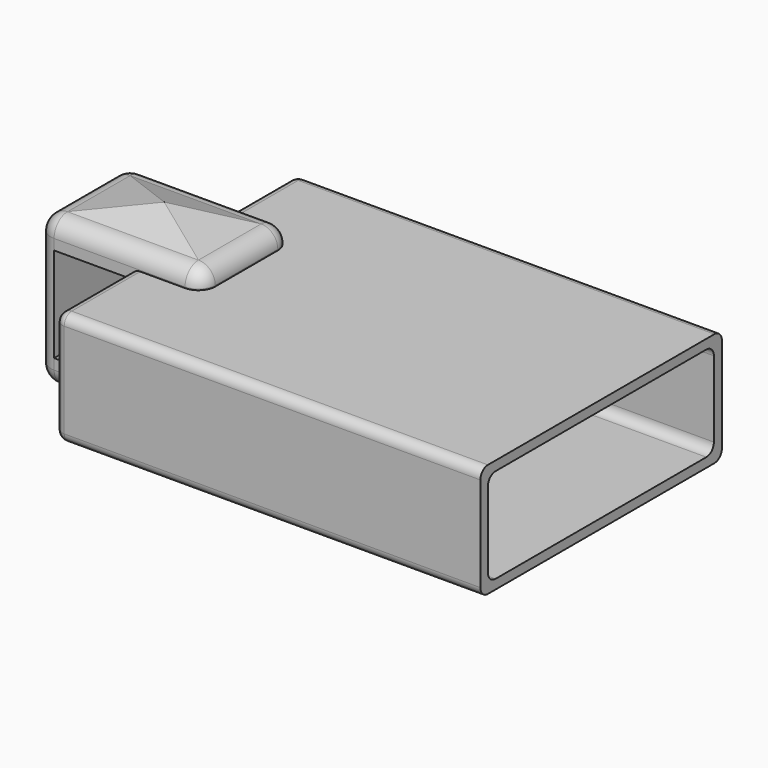
from build123d import *

# Parameters (mm, degrees)
F0_W      = 17.2212
F0_H      = 12.2174
F2_DEPTH  = 2.2987
F1_W      = 6.6548
F1_H      = 4.5212
F3_DEPTH  = 3.0226
F4_R      = 0.67818
F5_R      = 0.381
F3_FACE_W = 5.29844
F3_FACE_H = 3.16484
F8_W      = 3.10642
F8_H      = 3.8354
F9_DEPTH  = 4.5212
F11_DEPTH = 16.8402
F12_R     = 0.381


with BuildPart() as f2:
    # F0 (on Top) → F2 (new body, symmetric)
    with BuildSketch(Plane.XY):
        Rectangle(F0_W, F0_H)
    extrude(amount=F2_DEPTH, both=True)

    # F1 (on Top) → F3 (join, symmetric)
    with BuildSketch(Plane.XY):
        with Locations((-9.0678, 0)):
            Rectangle(F1_W, F1_H)
    extrude(amount=F3_DEPTH, both=True)

    # F4
    f4_edges = [f2.edges().sort_by_distance(p)[0] for p in [
        (-9.0678, 2.2606, 3.0226),
        (-9.0678, 2.2606, -3.0226),
        (-9.0678, -2.2606, 3.0226),
        (-9.0678, -2.2606, -3.0226),
        (-5.7404, 0, -3.0226),
        (-5.7404, 0, 3.0226),
        (-12.3952, -2.2606, 0),
        (-12.3952, 2.2606, 0),
        (-12.3952, 0, -3.0226),
        (-12.3952, 0, 3.0226),
        (-5.7404, 2.2606, -2.66065),
        (-5.7404, 2.2606, 2.66065),
        (-5.7404, -2.2606, 2.66065),
        (-5.7404, -2.2606, -2.66065),
    ]]
    fillet(f4_edges, radius=F4_R)

    # F5
    f5_edges = [f2.edges().sort_by_distance(p)[0] for p in [
        (0, 6.1087, 2.2987),
        (0, 6.1087, -2.2987),
        (-8.6106, 6.1087, 0),
        (-8.6106, -4.18465, 2.2987),
        (-8.6106, 4.18465, 2.2987),
        (-8.6106, -4.18465, -2.2987),
        (-8.6106, 4.18465, -2.2987),
        (-8.6106, -6.1087, 0),
        (0, -6.1087, 2.2987),
        (0, -6.1087, -2.2987),
    ]]
    fillet(f5_edges, radius=F5_R)

    # F3_face (on face) → F7 section 0
    with BuildSketch(Plane(origin=(-9.0678, 0, 3.0226), x_dir=(1, 0, 0), z_dir=(0, 0, 1)), mode=Mode.PRIVATE) as f7_s0:
        Rectangle(F3_FACE_W, F3_FACE_H)
    loft([f7_s0.sketch, Vertex(-9.0678, 0, 3.5814)])

    # F8 (on face) → F9 (cut)
    with BuildSketch(Plane.XZ.offset(2.2606)):
        with Locations((-10.16381, 0)):
            Rectangle(F8_W, F8_H)
    extrude(amount=-F9_DEPTH, mode=Mode.SUBTRACT)

    # F10 (on face) → F11 (cut)
    with BuildSketch(Plane.YZ.offset(8.6106)):
        Polygon((5.7023, 1.9177), (0, 1.9177), (-5.7277, 1.9177), (-5.7277, 0), (-5.7277, -1.9177), (0, -1.9177), (5.7023, -1.9177), align=None)
    extrude(amount=-F11_DEPTH, mode=Mode.SUBTRACT)

    # F12
    f12_edges = [f2.edges().sort_by_distance(p)[0] for p in [
        (0.1905, 5.7023, 1.9177),
        (0.1905, -5.7277, 1.9177),
        (0.1905, -5.7277, -1.9177),
        (0.1905, 5.7023, -1.9177),
    ]]
    fillet(f12_edges, radius=F12_R)


solid = f2.part
